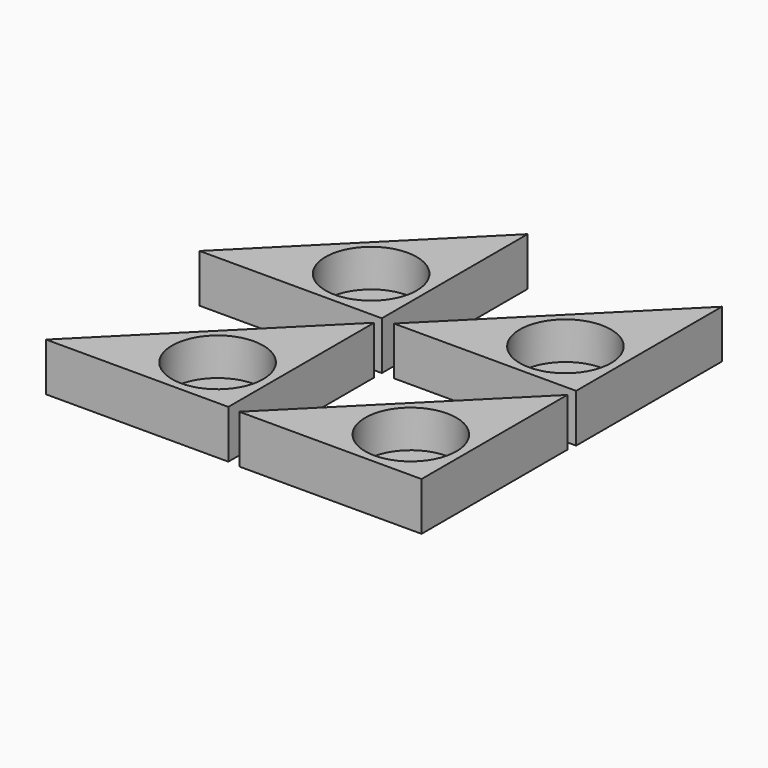
from build123d import *

# Parameters (mm, degrees)
F0_R     = 4.25
F1_DEPTH = 4.5
F2_DEPTH = 1


with BuildPart() as f1:
    # F0 (on Top) → F1 (new body)
    with BuildSketch(Plane.XY):
        Polygon((-17, 0), (0, 0), (0, 17), align=None)
        with Locations((-5, 5)):
            Circle(F0_R, mode=Mode.SUBTRACT)
    extrude(amount=F1_DEPTH)

    # F0 (on Top) → F2 (join)
    with BuildSketch(Plane.XY):
        with Locations((-5, 5)):
            Circle(F0_R)
    extrude(amount=F2_DEPTH)


with BuildPart() as f3_1:
    # F3: copy of F1
    add(f1.part.moved(Location((18.2, -0.1, 0))))


with BuildPart() as f4_1:
    # F4: copy of F1
    add(f1.part.moved(Location((0, -17.9, 0))))


with BuildPart() as f5_1:
    # F5: copy of F1
    add(f1.part.moved(Location((18.1, -18, 0))))


solid = Compound([f1.part, f3_1.part, f4_1.part, f5_1.part])
